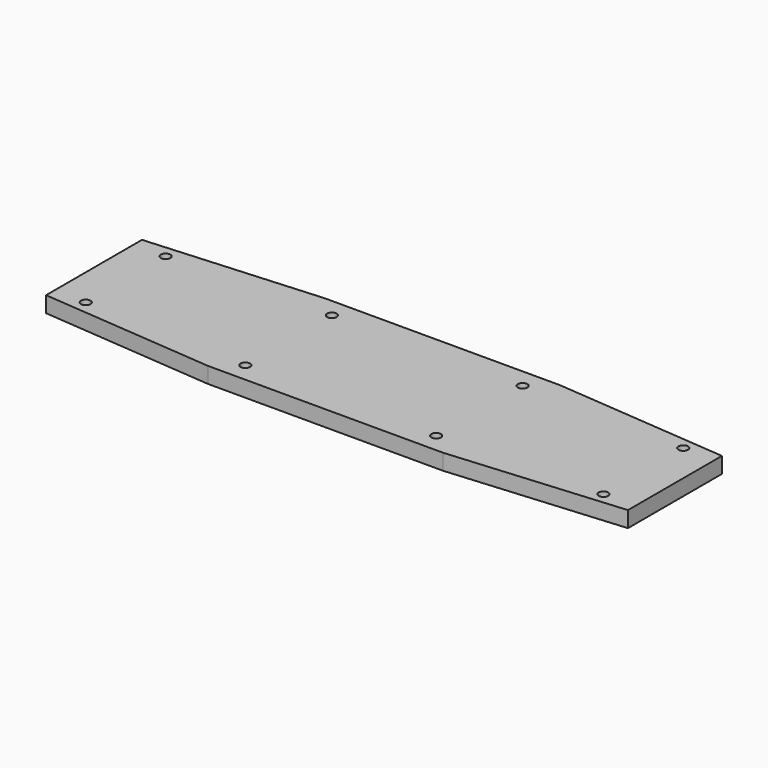
from build123d import *

# Parameters (mm, degrees)
F0_R     = 1.5
F1_DEPTH = 5


with BuildPart() as f1:
    # F0 (on Top) → F1 (new body)
    with BuildSketch(Plane.XY):
        Polygon((-86.111158, -19.914978), (-31.599025, -24.444587), (42.400975, -24.444587), (96.888842, -19.916994), (96.888842, 17.025804), (42.376709, 21.555413), (-31.623291, 21.555413), (-86.111158, 17.784854), align=None)
        with Locations((-76.111158, -16.832473)):
            Circle(F0_R, mode=Mode.SUBTRACT)
        with Locations((-24.611158, -18.444587)):
            Circle(F0_R, mode=Mode.SUBTRACT)
        with Locations((35.388842, -18.444587)):
            Circle(F0_R, mode=Mode.SUBTRACT)
        with Locations((86.888842, -17.055322)):
            Circle(F0_R, mode=Mode.SUBTRACT)
        with Locations((-76.111158, 14.567527)):
            Circle(F0_R, mode=Mode.SUBTRACT)
        with Locations((-24.611158, 15.555413)):
            Circle(F0_R, mode=Mode.SUBTRACT)
        with Locations((35.388842, 15.555413)):
            Circle(F0_R, mode=Mode.SUBTRACT)
        with Locations((86.888842, 14.344678)):
            Circle(F0_R, mode=Mode.SUBTRACT)
    extrude(amount=F1_DEPTH)


solid = f1.part
